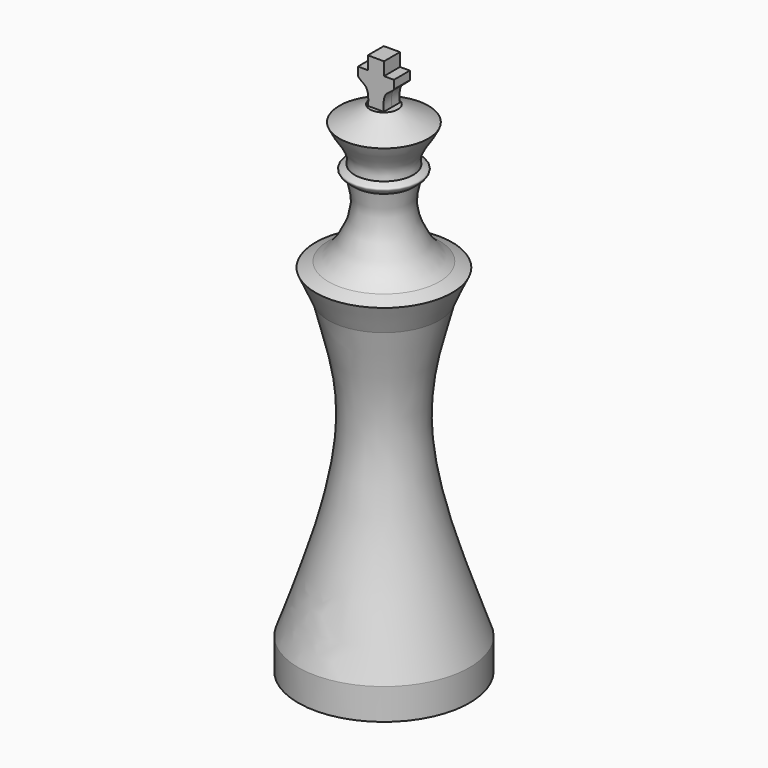
from build123d import *

# Parameters (mm, degrees)
F0_W     = 17.1797536314
F0_H     = 6.2460470638
F2_DEPTH = 2


with BuildPart() as f1:
    # F0 (on Front) → F1 (revolve)
    with BuildSketch(Plane.XZ):
        with Locations((-8.5898768157, -39.7314429283)):
            Rectangle(F0_W, F0_H)
        with BuildLine():
            add(Edge.make_bspline(
                [(-17.1797536314, -36.6084193964), (-13.8412130362, -27.0733219531), (-3.7655602714, -0.1039771833), (-9.60948889, 16.5696096292), (-11.1084822565, 22.6635169238)],
                knots=[0, 0, 0, 0, 0.5622745719, 1, 1, 1, 1], degree=3))
            Line((-17.1797536314, -36.6084193964), (0, -36.6084193964))
            Line((0, -36.6084193964), (0, 57.2025813162))
            Line((0, 57.2025813162), (-1.5886335168, 57.2025813162))
            Line((-1.5886335168, 57.2025813162), (-2.7994840118, 57.2025813162))
            Line((-2.7994840118, 57.2025813162), (-8.9197969064, 54.0465675294))
            add(Edge.make_bspline(
                [(-5.8707841672, 46.6392822564), (-5.2688373253, 49.3856109679), (-7.9407452916, 51.5203798811), (-8.9197969064, 54.0465675294)],
                knots=[0, 0, 0, 0, 8.0102655262, 8.0102655262, 8.0102655262, 8.0102655262], degree=3))
            add(Edge.make_bspline(
                [(-5.8707841672, 44.4355420768), (-6.4785506158, 44.8487001919), (-7.9604304678, 46.1172039826), (-6.4081557233, 46.3077279426), (-5.8707841672, 46.6392822564)],
                knots=[0, 0, 0, 0, 0.5323422757, 1, 1, 1, 1], degree=3))
            add(Edge.make_bspline(
                [(-11.1084822565, 29.491815716), (-7.8871886606, 31.232032236), (-4.125628446, 39.4230942254), (-5.5170923569, 42.2844330979), (-5.8707841672, 44.4355420768)],
                knots=[0, 0, 0, 0, 0.5894302475, 1, 1, 1, 1], degree=3))
            Line((-11.1084822565, 29.491815716), (-13.6886807159, 28.3834971488))
            Line((-13.6886807159, 28.3834971488), (-11.1084822565, 22.6635169238))
        make_face()
    revolve(axis=Axis((0, 0, 4.9645396212), (0, 0, -1)))

    # F0 (on Front) → F2 (join, symmetric)
    with BuildSketch(Plane.XZ):
        with BuildLine():
            Line((-1.5886335168, 57.2025813162), (0, 57.2025813162))
            Line((0, 57.2025813162), (0, 66.1251172423))
            Line((0, 66.1251172423), (-1.62465428, 66.1251172423))
            Line((-1.62465428, 66.1251172423), (-1.62465428, 63.5033920407))
            Line((-1.62465428, 63.5033920407), (-3.6026129965, 63.5033920407))
            Line((-3.6026129965, 63.5033920407), (-3.6026129965, 61.8110969663))
            add(Edge.make_bspline(
                [(-1.5886335168, 57.2025813162), (-1.498904641, 58.1154281999), (-1.381835571, 60.6809226763), (-3.1117708882, 61.128619796), (-3.6026129965, 61.8110969663)],
                knots=[0, 0, 0, 0, 0.5359349994, 1, 1, 1, 1], degree=3))
        make_face()
        with BuildLine():
            Line((0, 66.1251172423), (0, 57.2025813162))
            Line((0, 57.2025813162), (1.5886335168, 57.2025813162))
            add(Edge.make_bspline(
                [(1.5886335168, 57.2025813162), (1.498904641, 58.1154281999), (1.381835571, 60.6809226763), (3.1117708882, 61.128619796), (3.6026129965, 61.8110969663)],
                knots=[0, 0, 0, 0, 0.5359349994, 1, 1, 1, 1], degree=3))
            Line((3.6026129965, 61.8110969663), (3.6026129965, 63.5033920407))
            Line((3.6026129965, 63.5033920407), (1.62465428, 63.5033920407))
            Line((1.62465428, 63.5033920407), (1.62465428, 66.1251172423))
            Line((1.62465428, 66.1251172423), (0, 66.1251172423))
        make_face()
    extrude(amount=F2_DEPTH, both=True)


solid = f1.part
